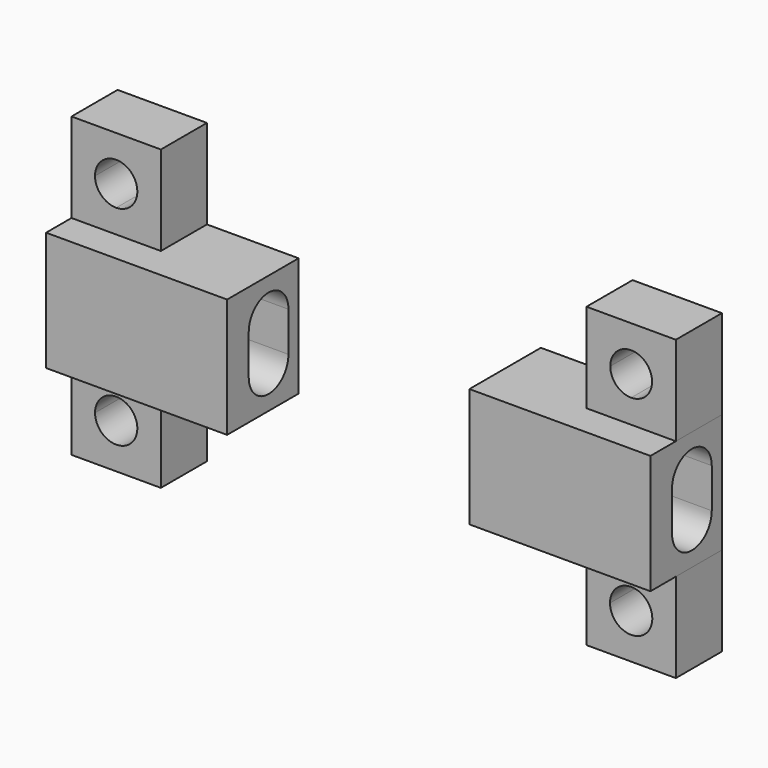
from build123d import *

# Parameters (mm, degrees)
F0_W      = 9
F0_H      = 5.8
F0_H_2    = 3.2
F1_DEPTH  = 12
F5_DEPTH  = 9
F3_W      = 9
F3_H      = 5.8
F6_DEPTH  = 9
F4_W      = 9
F4_H      = 5.8
F8_DEPTH  = 25
F10_DEPTH = 25
F12_DEPTH = 25
F14_DEPTH = 25
F15_DEPTH = 25
F16_DEPTH = 59


with BuildPart() as f1:
    # F0 (on Top) → F1 (new body)
    with BuildSketch(Plane.XY):
        Polygon((-12.2, -21.43), (-21.43, -21.43), (-21.43, -27.23), (-21.43, -30.43), (-12.2, -30.43), align=None)
        with Locations((-25.93, -24.33)):
            Rectangle(F0_W, F0_H)
        with Locations((-25.93, -28.83)):
            Rectangle(F0_W, F0_H_2)
    extrude(amount=F1_DEPTH)

    # F2 (on face) → F16 (cut)
    with BuildSketch(Plane(origin=(12.2, 0, 0), x_dir=(0, -1, 0), z_dir=(-1, 0, 0))):
        with BuildLine():
            ThreePointArc((27.71, 8), (25.21, 10.5), (22.71, 8))
            Line((22.71, 8), (25.21, 8))
            Line((25.21, 8), (27.71, 8))
        make_face()
        with BuildLine():
            ThreePointArc((22.71, 8), (22.9739320225, 6.8819660113), (23.71, 6))
            ThreePointArc((23.71, 6), (25.21, 6.5), (26.71, 6))
            ThreePointArc((26.71, 6), (27.4460679775, 6.8819660113), (27.71, 8))
            Line((27.71, 8), (25.21, 8))
            Line((25.21, 8), (22.71, 8))
        make_face()
        with BuildLine():
            ThreePointArc((26.71, 6), (25.21, 6.5), (23.71, 6))
            ThreePointArc((23.71, 6), (25.21, 5.5), (26.71, 6))
        make_face()
        with BuildLine():
            ThreePointArc((26.71, 6), (25.21, 5.5), (23.71, 6))
            ThreePointArc((23.71, 6), (22.9739320225, 5.1180339887), (22.71, 4))
            Line((22.71, 4), (27.71, 4))
            ThreePointArc((27.71, 4), (27.4460679775, 5.1180339887), (26.71, 6))
        make_face()
        with BuildLine():
            Line((22.71, 8), (22.71, 6))
            Line((22.71, 6), (23.71, 6))
            ThreePointArc((23.71, 6), (22.9739320225, 6.8819660113), (22.71, 8))
        make_face()
        with BuildLine():
            Line((23.71, 6), (22.71, 6))
            Line((22.71, 6), (22.71, 4))
            ThreePointArc((22.71, 4), (22.9739320225, 5.1180339887), (23.71, 6))
        make_face()
        with BuildLine():
            ThreePointArc((27.71, 8), (27.4460679775, 6.8819660113), (26.71, 6))
            ThreePointArc((26.71, 6), (27.4460679775, 5.1180339887), (27.71, 4))
            Line((27.71, 4), (27.71, 6))
            Line((27.71, 6), (27.71, 8))
        make_face()
        with BuildLine():
            Line((27.71, 4), (22.71, 4))
            ThreePointArc((22.71, 4), (25.21, 1.5), (27.71, 4))
        make_face()
    extrude(amount=F16_DEPTH, mode=Mode.SUBTRACT)


with BuildPart() as f1b:
    # F0 (on Top) → F1, piece 2 (new body)
    with BuildSketch(Plane.XY):
        Polygon((21.43, -27.23), (21.43, -21.43), (12.2, -21.43), (12.2, -30.43), (21.43, -30.43), align=None)
        with Locations((25.93, -24.33)):
            Rectangle(F0_W, F0_H)
        with Locations((25.93, -28.83)):
            Rectangle(F0_W, F0_H_2)
    extrude(amount=F1_DEPTH)

    # F2 (on face) → F15 (cut)
    with BuildSketch(Plane(origin=(12.2, 0, 0), x_dir=(0, -1, 0), z_dir=(-1, 0, 0))):
        with BuildLine():
            ThreePointArc((27.71, 8), (25.21, 10.5), (22.71, 8))
            Line((22.71, 8), (25.21, 8))
            Line((25.21, 8), (27.71, 8))
        make_face()
        with BuildLine():
            ThreePointArc((22.71, 8), (22.9739320225, 6.8819660113), (23.71, 6))
            ThreePointArc((23.71, 6), (25.21, 6.5), (26.71, 6))
            ThreePointArc((26.71, 6), (27.4460679775, 6.8819660113), (27.71, 8))
            Line((27.71, 8), (25.21, 8))
            Line((25.21, 8), (22.71, 8))
        make_face()
        with BuildLine():
            ThreePointArc((26.71, 6), (25.21, 6.5), (23.71, 6))
            ThreePointArc((23.71, 6), (25.21, 5.5), (26.71, 6))
        make_face()
        with BuildLine():
            Line((22.71, 8), (22.71, 6))
            Line((22.71, 6), (23.71, 6))
            ThreePointArc((23.71, 6), (22.9739320225, 6.8819660113), (22.71, 8))
        make_face()
        with BuildLine():
            Line((23.71, 6), (22.71, 6))
            Line((22.71, 6), (22.71, 4))
            ThreePointArc((22.71, 4), (22.9739320225, 5.1180339887), (23.71, 6))
        make_face()
        with BuildLine():
            ThreePointArc((26.71, 6), (25.21, 5.5), (23.71, 6))
            ThreePointArc((23.71, 6), (22.9739320225, 5.1180339887), (22.71, 4))
            Line((22.71, 4), (27.71, 4))
            ThreePointArc((27.71, 4), (27.4460679775, 5.1180339887), (26.71, 6))
        make_face()
        with BuildLine():
            ThreePointArc((27.71, 8), (27.4460679775, 6.8819660113), (26.71, 6))
            ThreePointArc((26.71, 6), (27.4460679775, 5.1180339887), (27.71, 4))
            Line((27.71, 4), (27.71, 6))
            Line((27.71, 6), (27.71, 8))
        make_face()
        with BuildLine():
            Line((27.71, 4), (22.71, 4))
            ThreePointArc((22.71, 4), (25.21, 1.5), (27.71, 4))
        make_face()
    extrude(amount=-F15_DEPTH, mode=Mode.SUBTRACT)


with BuildPart() as f5:
    # F0 (on Top) → F5 (new body)
    with BuildSketch(Plane.XY):
        with Locations((25.93, -24.33)):
            Rectangle(F0_W, F0_H)
    extrude(amount=-F5_DEPTH)

    # F13 (on face) → F14 (cut)
    with BuildSketch(Plane(origin=(0, -21.43, 0), x_dir=(-1, 0, 0), z_dir=(0, 1, 0))):
        with BuildLine():
            ThreePointArc((-23.8, -4.5), (-24.4238625561, -2.9938625561), (-25.93, -2.37))
            ThreePointArc((-25.93, -2.37), (-27.4361374439, -6.0061374439), (-23.8, -4.5))
        make_face()
    extrude(amount=-F14_DEPTH, mode=Mode.SUBTRACT)


with BuildPart() as f5b:
    # F0 (on Top) → F5, piece 2 (new body)
    with BuildSketch(Plane.XY):
        with Locations((-25.93, -24.33)):
            Rectangle(F0_W, F0_H)
    extrude(amount=-F5_DEPTH)

    # F9 (on face) → F10 (cut)
    with BuildSketch(Plane(origin=(0, -21.43, 0), x_dir=(-1, 0, 0), z_dir=(0, 1, 0))):
        with BuildLine():
            ThreePointArc((28.06, -4.5), (27.4361374439, -2.9938625561), (25.93, -2.37))
            ThreePointArc((25.93, -2.37), (24.4238625561, -6.0061374439), (28.06, -4.5))
        make_face()
    extrude(amount=-F10_DEPTH, mode=Mode.SUBTRACT)


with BuildPart() as f6:
    # F3 (on face) → F6 (new body)
    with BuildSketch(Plane.XY.offset(12)):
        with Locations((25.93, -24.33)):
            Rectangle(F3_W, F3_H)
    extrude(amount=F6_DEPTH)

    # F11 (on face) → F12 (cut)
    with BuildSketch(Plane(origin=(0, -21.43, 0), x_dir=(-1, 0, 0), z_dir=(0, 1, 0))):
        with BuildLine():
            ThreePointArc((-23.8247930351, 16.5), (-27.4186061207, 17.9886061207), (-25.93, 14.3947930351))
            ThreePointArc((-25.93, 14.3947930351), (-24.4413938793, 15.0113938793), (-23.8247930351, 16.5))
        make_face()
    extrude(amount=-F12_DEPTH, mode=Mode.SUBTRACT)


with BuildPart() as f6b:
    # F4 (on face) → F6, piece 2 (new body)
    with BuildSketch(Plane.XY.offset(12)):
        with Locations((-25.93, -24.33)):
            Rectangle(F4_W, F4_H)
    extrude(amount=F6_DEPTH)

    # F7 (on face) → F8 (cut)
    with BuildSketch(Plane(origin=(0, -21.43, 0), x_dir=(-1, 0, 0), z_dir=(0, 1, 0))):
        with BuildLine():
            ThreePointArc((28.06, 16.5), (24.4238625561, 18.0061374439), (25.93, 14.37))
            ThreePointArc((25.93, 14.37), (27.4361374439, 14.9938625561), (28.06, 16.5))
        make_face()
    extrude(amount=-F8_DEPTH, mode=Mode.SUBTRACT)


solid = Compound([f1.part, f1b.part, f5.part, f5b.part, f6.part, f6b.part])
